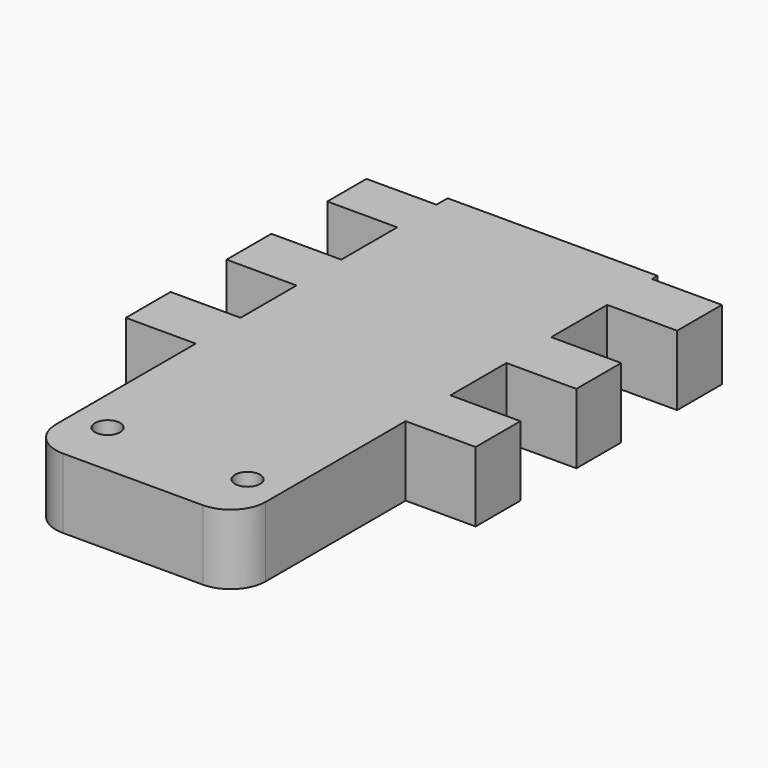
from build123d import *

# Parameters (mm, degrees)
F0_W     = 10
F0_H     = 8
F0_H_2   = 7
F1_DEPTH = 10
F2_R     = 1.8
F3_DEPTH = 10
F4_R     = 5


with BuildPart() as f1:
    # F0 (on Top) → F1 (new body)
    with BuildSketch(Plane.XY):
        Polygon((15, 36.5), (15, 37.5), (-15, 37.5), (-15, 35.5), (-15, 28.5), (-15, 18.5), (-15, 10.5), (-15, 0.5), (-15, -7.5), (-15, -37.5), (15, -37.5), (15, -7.5), (15, 0.5), (15, 10.5), (15, 18.5), (15, 28.5), align=None)
        with Locations((20, 32.5)):
            Rectangle(F0_W, F0_H)
        with Locations((-20, 32)):
            Rectangle(F0_W, F0_H_2)
        with Locations((20, 14.5)):
            Rectangle(F0_W, F0_H)
        with Locations((-20, 14.5)):
            Rectangle(F0_W, F0_H)
        with Locations((20, -3.5)):
            Rectangle(F0_W, F0_H)
        with Locations((-20, -3.5)):
            Rectangle(F0_W, F0_H)
    extrude(amount=F1_DEPTH)

    # F2 (on face) → F3 (cut)
    with BuildSketch(Plane.XY.offset(10)):
        with Locations((-10, -29.5)):
            Circle(F2_R)
        with Locations((10, -29.5)):
            Circle(F2_R)
    extrude(amount=-F3_DEPTH, mode=Mode.SUBTRACT)

    # F4
    f4_edges = [f1.edges().sort_by_distance(p)[0] for p in [
        (15, -37.5, 5),
        (-15, -37.5, 5),
    ]]
    fillet(f4_edges, radius=F4_R)


solid = f1.part
